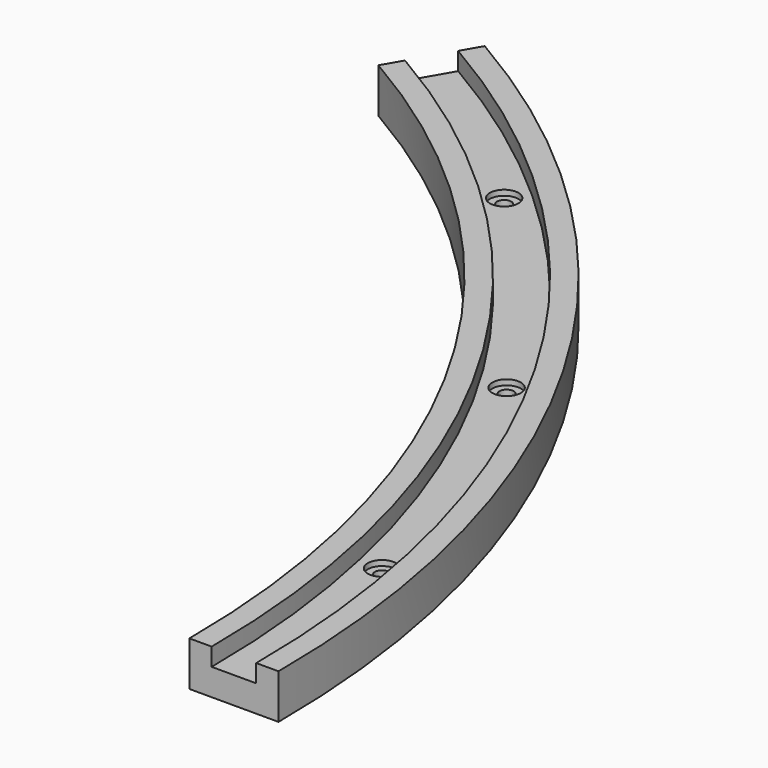
from build123d import *

# Parameters (mm, degrees)
F1_DEPTH       = 25
F3_DEPTH       = 10
F5_D           = 8
F5_CBORE_D     = 16
F5_CBORE_DEPTH = 3


with BuildPart() as f1:
    # F0 (on Top) → F1 (new body)
    with BuildSketch(Plane.XY):
        with BuildLine():
            Line((300, 519.615242), (275, 476.313972))
            ThreePointArc((275, 476.313972), (476.313972, 275), (550, 0))
            Line((550, 0), (600, 0))
            ThreePointArc((600, 0), (519.615242, 300), (300, 519.615242))
        make_face()
    extrude(amount=F1_DEPTH)

    # F2 (on face) → F3 (cut)
    with BuildSketch(Plane.XY.offset(25)):
        with BuildLine():
            Line((293.75, 508.789925), (281.25, 487.13929))
            ThreePointArc((281.25, 487.13929), (487.13929, 281.25), (562.5, 0))
            Line((562.5, 0), (587.5, 0))
            ThreePointArc((587.5, 0), (508.789925, 293.75), (293.75, 508.789925))
        make_face()
    extrude(amount=-F3_DEPTH, mode=Mode.SUBTRACT)

    # F5 (through all)
    with Locations(Plane.XY.offset(15)):
        with Locations((497.964607, 287.5), (384.750099, 427.308275), (562.43487, 119.549222)):
            CounterBoreHole(F5_D / 2, F5_CBORE_D / 2, F5_CBORE_DEPTH)


solid = f1.part
